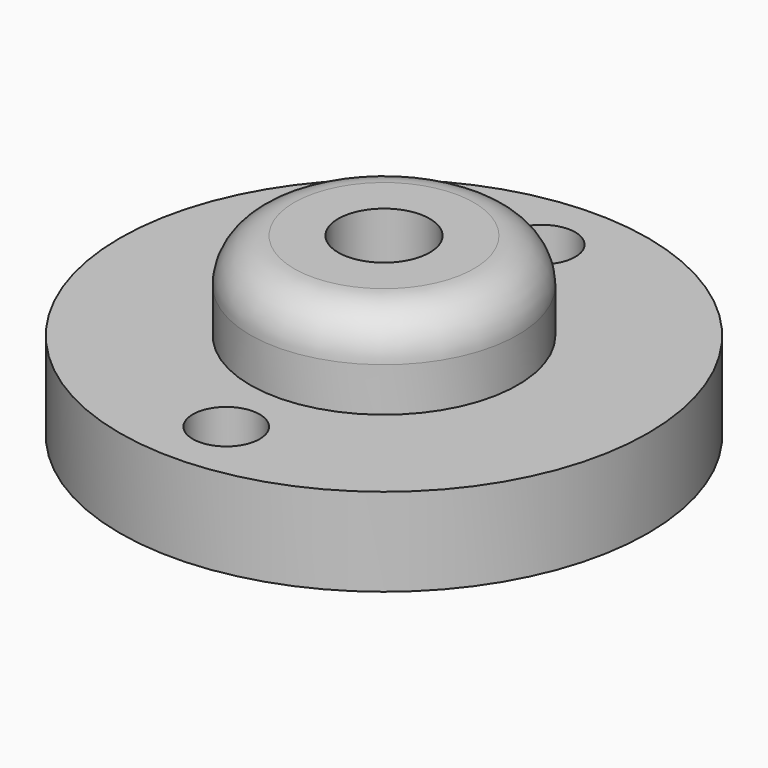
from build123d import *

# Parameters (mm, degrees)
F2_R     = 2.413
F3_DEPTH = 25.4
F4_R     = 3.175


with BuildPart() as f1:
    # F0 (on Front) → F1 (revolve)
    with BuildSketch(Plane.XZ):
        Polygon((-19.05, 0), (-3.302, 0), (-3.302, 12.7), (-9.652, 12.7), (-9.652, 6.35), (-19.05, 6.35), align=None)
    revolve(axis=Axis((0, 0, 14.768198), (0, 0, 1)))

    # F2 (on face) → F3 (cut)
    with BuildSketch(Plane(origin=(0, 0, 0), x_dir=(1, 0, 0), z_dir=(0, 0, -1))):
        with Locations((0, -14.224)):
            Circle(F2_R)
        with Locations((0, 14.224)):
            Circle(F2_R)
    extrude(amount=-F3_DEPTH, mode=Mode.SUBTRACT)

    # F4
    f4_edges = [f1.edges().sort_by_distance(p)[0] for p in [
        (9.652, 0, 12.7),
    ]]
    fillet(f4_edges, radius=F4_R)


solid = f1.part
